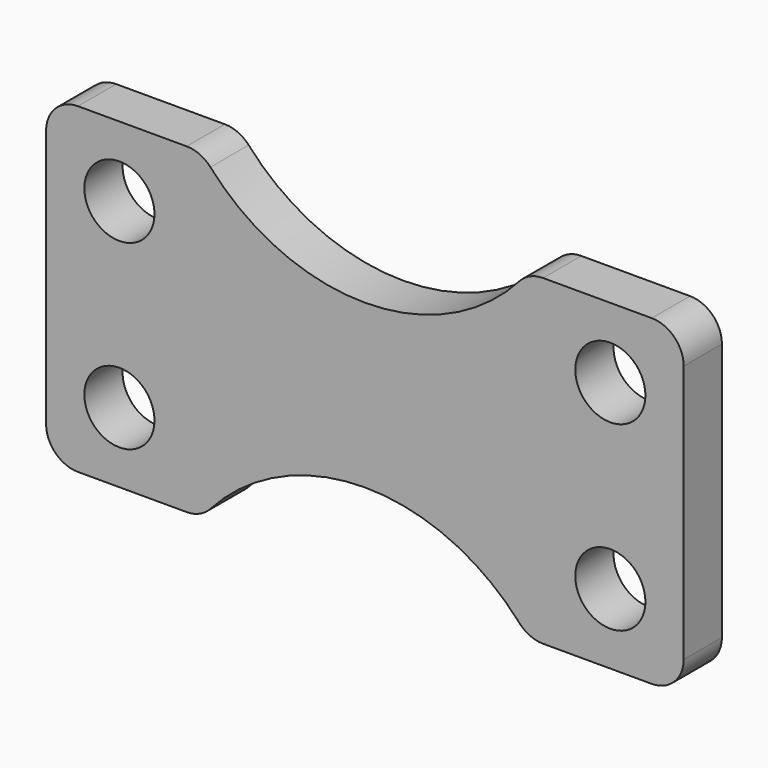
from build123d import *

# Parameters (mm, degrees)
F0_W     = 20
F0_H     = 10.1
F1_DEPTH = 1.5
F2_R     = 1.1
F3_DEPTH = 1.5
F4_R     = 1


with BuildPart() as f1:
    # F0 (on Front) → F1 (new body)
    with BuildSketch(Plane.XZ):
        with Locations((10, 5.05)):
            Rectangle(F0_W, F0_H)
    extrude(amount=F1_DEPTH)

    # F2 (on face) → F3 (cut, through all)
    with BuildSketch(Plane.XZ.offset(1.5)):
        with Locations((2.3, 7.9)):
            Circle(F2_R)
        with Locations((17.7, 7.9)):
            Circle(F2_R)
        with Locations((2.3, 2.2)):
            Circle(F2_R)
        with Locations((17.7, 2.2)):
            Circle(F2_R)
        with BuildLine():
            Line((15.123475383, 10.1), (4.876524617, 10.1))
            ThreePointArc((4.876524617, 10.1), (10, 7.6), (15.123475383, 10.1))
        make_face()
        with BuildLine():
            ThreePointArc((15.123475383, 0), (10, 2.5), (4.876524617, 0))
            Line((4.876524617, 0), (15.123475383, 0))
        make_face()
    extrude(amount=-F3_DEPTH, mode=Mode.SUBTRACT)

    # F4
    f4_edges = [f1.edges().sort_by_distance(p)[0] for p in [
        (20, -0.75, 10.1),
        (20, -0.75, 0),
        (0, -0.75, 10.1),
        (0, -0.75, 0),
        (4.876525, -0.75, 10.1),
        (15.123475, -0.75, 10.1),
        (4.876525, -0.75, 0),
        (15.123475, -0.75, 0),
    ]]
    fillet(f4_edges, radius=F4_R)


solid = f1.part
